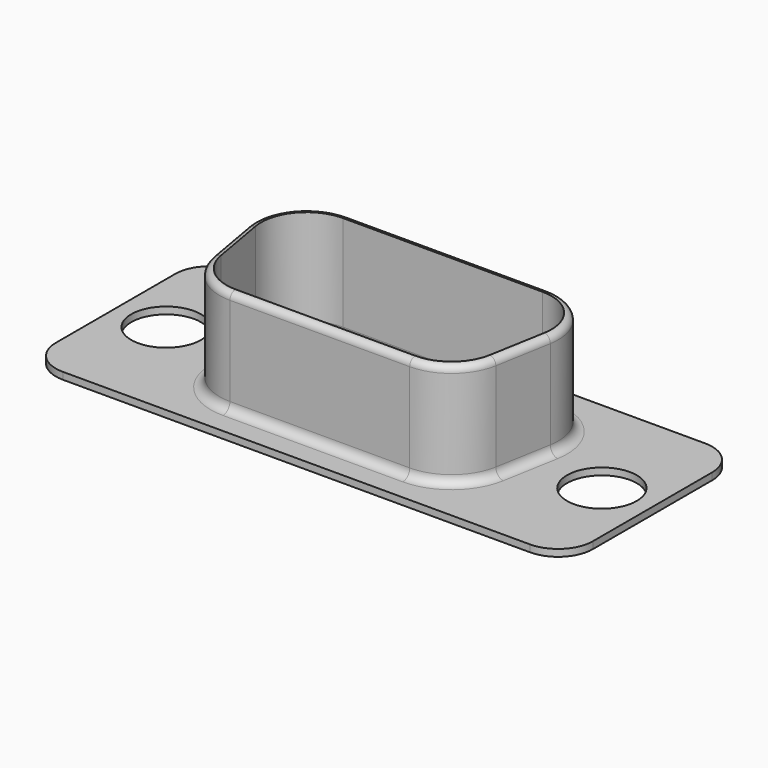
from build123d import *

# Parameters (mm, degrees)
PAD_DEPTH       = 0.4
SKETCH001_R     = 2
POCKET_DEPTH    = 5
PAD001_DEPTH    = 6
POCKET001_DEPTH = 6.401
FILLET_R        = 0.5
FILLET001_R     = 0.39
FILLET002_R     = 0.9


with BuildPart() as part:
    # Sketch → Pad (new body)
    with BuildSketch(Plane.XY):
        with BuildLine():
            Line((-13.4, 6.275), (13.4, 6.275))
            ThreePointArc((15.4, 4.275), (14.814214, 5.689214), (13.4, 6.275))
            Line((15.4, 4.275), (15.4, -4.275))
            ThreePointArc((13.4, -6.275), (14.814214, -5.689214), (15.4, -4.275))
            Line((13.4, -6.275), (-13.4, -6.275))
            ThreePointArc((-15.4, -4.275), (-14.814214, -5.689214), (-13.4, -6.275))
            Line((-15.4, -4.275), (-15.4, 4.275))
            ThreePointArc((-13.4, 6.275), (-14.814214, 5.689214), (-15.4, 4.275))
        make_face()
    extrude(amount=PAD_DEPTH)

    # Sketch001 (on Face10 of Pad) → Pocket (cut)
    with BuildSketch(Plane.XY.offset(0.4)):
        with Locations((-12.495, 0)):
            Circle(SKETCH001_R)
        with Locations((12.495, 0)):
            Circle(SKETCH001_R)
    extrude(amount=-POCKET_DEPTH, mode=Mode.SUBTRACT)

    # Sketch002 (on Face5 of Pocket) → Pad001 (join)
    with BuildSketch(Plane.XY.offset(0.4)):
        with BuildLine():
            Line((-5.72, 4.6), (5.72, 4.6))
            ThreePointArc((8.674304, 1.078381), (8.018354, 3.5281), (5.72, 4.6))
            Line((8.674304, 1.078381), (8.109304, -2.121619))
            ThreePointArc((5.155, -4.6), (7.0831, -3.898354), (8.109304, -2.121619))
            Line((5.155, -4.6), (-5.155, -4.6))
            ThreePointArc((-8.109304, -2.121619), (-7.0831, -3.898354), (-5.155, -4.6))
            Line((-8.109304, -2.121619), (-8.674304, 1.078381))
            ThreePointArc((-5.72, 4.6), (-8.018354, 3.5281), (-8.674304, 1.078381))
        make_face()
    extrude(amount=PAD001_DEPTH)

    # Sketch003 (on Face21 of Pad001) → Pocket001 (cut, through all)
    with BuildSketch(Plane.XY.offset(6.4)):
        with BuildLine():
            Line((-5.72, 4.2), (5.72, 4.2))
            ThreePointArc((8.280397, 1.14793), (7.711906, 3.27102), (5.72, 4.2))
            Line((8.280397, 1.14793), (7.715397, -2.05207))
            ThreePointArc((5.155, -4.2), (6.82602, -3.591906), (7.715397, -2.05207))
            Line((5.155, -4.2), (-5.155, -4.2))
            ThreePointArc((-7.715397, -2.05207), (-6.82602, -3.591906), (-5.155, -4.2))
            Line((-7.715397, -2.05207), (-8.280397, 1.14793))
            ThreePointArc((-5.72, 4.2), (-7.711906, 3.27102), (-8.280397, 1.14793))
        make_face()
    extrude(amount=-POCKET001_DEPTH, mode=Mode.SUBTRACT)

    # Fillet
    fillet_edges = [part.edges().sort_by_distance(p)[0] for p in [
        (0, -4.6, 0.4),
    ]]
    fillet(fillet_edges, radius=FILLET_R)

    # Fillet001
    fillet001_edges = [part.edges().sort_by_distance(p)[0] for p in [
        (-7.0831, -3.898354, 6.4),
    ]]
    fillet(fillet001_edges, radius=FILLET001_R)

    # Fillet002
    fillet002_edges = [part.edges().sort_by_distance(p)[0] for p in [
        (0, 4.2, 0),
    ]]
    fillet(fillet002_edges, radius=FILLET002_R)


solid = part.part
